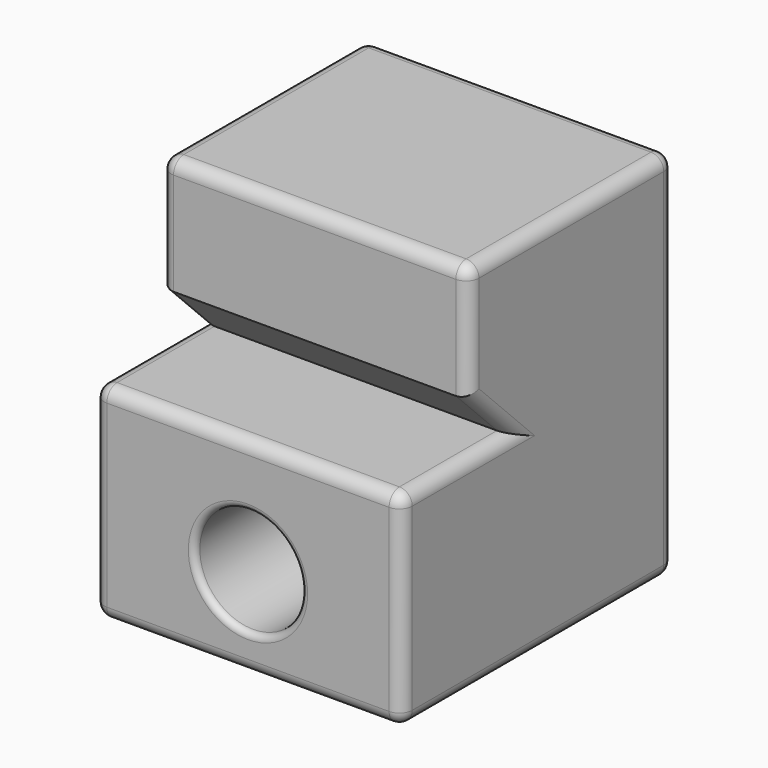
from build123d import *

# Parameters (mm, degrees)
F0_W     = 24
F0_H     = 26.5
F1_DEPTH = 29
F3_DEPTH = 25
F4_R     = 4.15
F5_DEPTH = 31
F6_R     = 1
F7_R     = 0.5


with BuildPart() as f1:
    # F0 (on Top) → F1 (new body)
    with BuildSketch(Plane.XY):
        Rectangle(F0_W, F0_H)
    extrude(amount=F1_DEPTH)

    # F2 (on face) → F3 (cut)
    with BuildSketch(Plane.YZ.offset(12)):
        Polygon((-6.75, 20), (-6.75, 29), (-13.25, 29), (-13.25, 16), (-2.75, 16), align=None)
    extrude(amount=-F3_DEPTH, mode=Mode.SUBTRACT)

    # F4 (on face) → F5 (cut)
    with BuildSketch(Plane.XZ.offset(13.25)):
        with Locations((0, 7)):
            Circle(F4_R)
    extrude(amount=-F5_DEPTH, mode=Mode.SUBTRACT)

    # F6
    f6_edges = [f1.edges().sort_by_distance(p)[0] for p in [
        (12, 0, 0),
        (12, 13.25, 14.5),
        (12, 3.25, 29),
        (12, -6.75, 24.5),
        (12, -4.75, 18),
        (12, -8, 16),
        (12, -13.25, 8),
        (-12, 0, 0),
        (-12, -13.25, 8),
        (-12, -8, 16),
        (-12, -4.75, 18),
        (-12, -6.75, 24.5),
        (-12, 3.25, 29),
        (-12, 13.25, 14.5),
        (0, -6.75, 29),
        (0, 13.25, 29),
        (0, 13.25, 0),
        (0, -13.25, 0),
        (0, -13.25, 16),
    ]]
    fillet(f6_edges, radius=F6_R)

    # F7
    f7_edges = [f1.edges().sort_by_distance(p)[0] for p in [
        (-4.15, 13.25, 7),
        (-4.15, -13.25, 7),
    ]]
    fillet(f7_edges, radius=F7_R)


solid = f1.part
